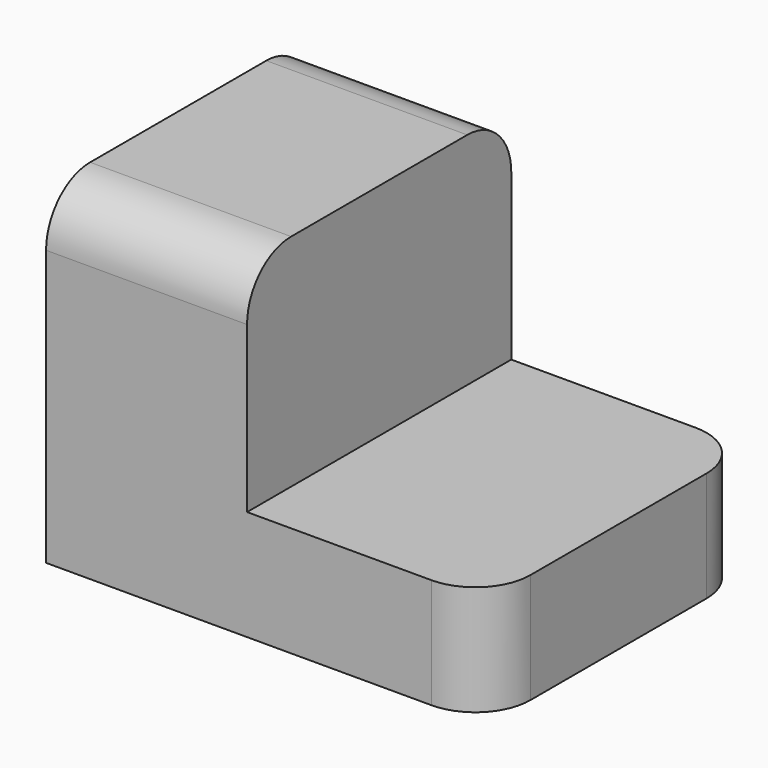
from build123d import *

# Parameters (mm, degrees)
F0_W     = 7.493854
F0_H     = 10
F0_W_2   = 18.2586
F1_DEPTH = 30
F2_R     = 5


with BuildPart() as f1:
    # F0 (on Front) → F1 (new body)
    with BuildSketch(Plane.XZ):
        Polygon((0, 10), (0, 0), (32.506146, 0), (32.506146, 10), (18.2586, 10), align=None)
        with Locations((36.253073, 5)):
            Rectangle(F0_W, F0_H)
        with Locations((9.1293, 15)):
            Rectangle(F0_W_2, F0_H)
        with Locations((9.1293, 25)):
            Rectangle(F0_W_2, F0_H)
    extrude(amount=F1_DEPTH)

    # F2
    f2_edges = [f1.edges().sort_by_distance(p)[0] for p in [
        (9.1293, -30, 30),
        (9.1293, 0, 30),
        (40, -30, 5),
        (40, 0, 5),
    ]]
    fillet(f2_edges, radius=F2_R)


solid = f1.part
